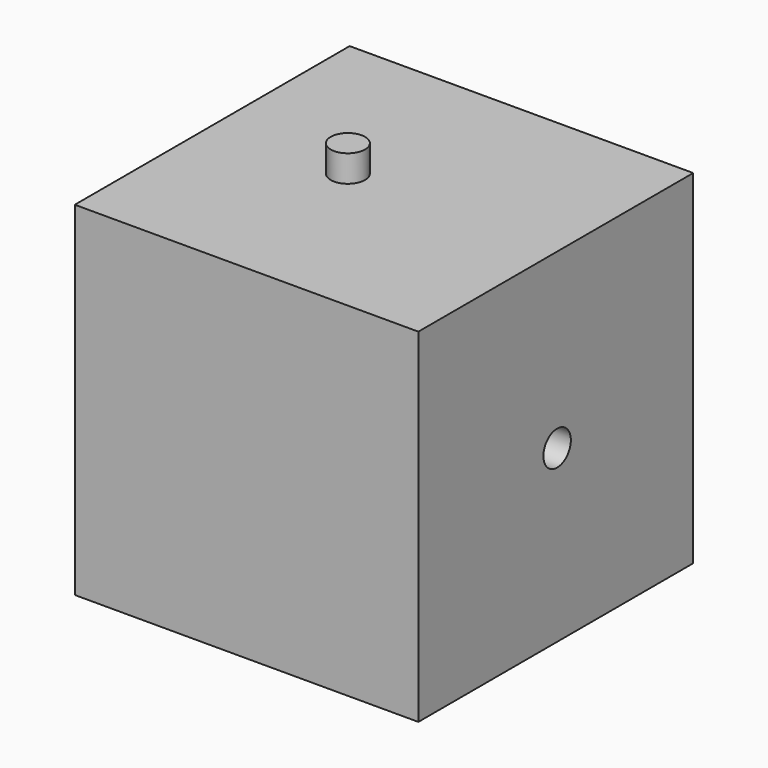
from build123d import *

# Parameters (mm, degrees)
F0_W     = 100
F0_H     = 100
F1_DEPTH = 100
F2_R     = 5
F3_DEPTH = 10
F4_R     = 5
F5_DEPTH = 107.80932
F6_R     = 5
F7_DEPTH = 333.937347


with BuildPart() as f1:
    # F0 (on Front) → F1 (new body)
    with BuildSketch(Plane.XZ):
        with Locations((50, 50)):
            Rectangle(F0_W, F0_H)
    extrude(amount=F1_DEPTH)

    # F2 (on Top) → F3 (join)
    with BuildSketch(Plane.XY):
        with Locations((48.760578, -47.517374)):
            Circle(F2_R)
    extrude(amount=-F3_DEPTH)

    # F4 (on Top) → F5 (join)
    with BuildSketch(Plane.XY):
        with Locations((38.912062, -49.283471)):
            Circle(F4_R)
    extrude(amount=F5_DEPTH)

    # F6 (on Right) → F7 (cut)
    with BuildSketch(Plane.YZ):
        with Locations((-49.518168, 49.6369)):
            Circle(F6_R)
    extrude(amount=F7_DEPTH, mode=Mode.SUBTRACT)


solid = f1.part
